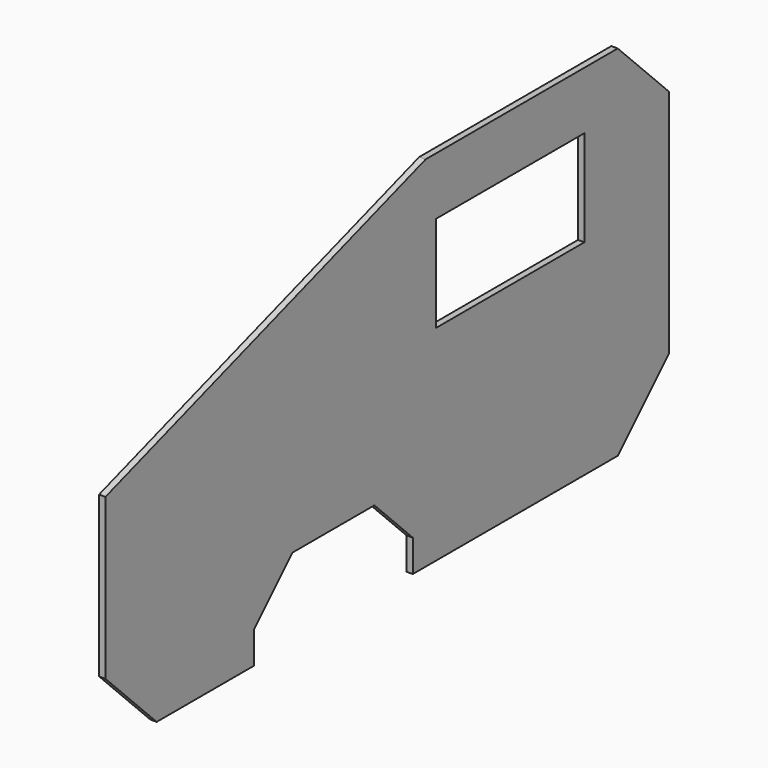
from build123d import *

# Parameters (mm, degrees)
PAD_DEPTH       = 20
POCKET_DEPTH    = 20
SKETCH002_W     = 580
SKETCH002_H     = 300
POCKET001_DEPTH = 20


with BuildPart() as part:
    # Sketch → Pad (new body)
    with BuildSketch(Plane.YZ):
        Polygon((-2000, 200), (-2000, 700), (-750, 1120), (0, 1120), (200, 920), (200, 200), (0, 0), (-1800, 0), align=None)
    extrude(amount=PAD_DEPTH)

    # Sketch001 (on Face10 of Pad) → Pocket (cut)
    with BuildSketch(Plane.YZ.offset(20)):
        Polygon((-950, 250), (-1270, 250), (-1420, 100), (-1420, 0), (-800, 0), (-800, 100), align=None)
    extrude(amount=-POCKET_DEPTH, mode=Mode.SUBTRACT)

    # Sketch002 (on Face5 of Pocket) → Pocket001 (cut)
    with BuildSketch(Plane.YZ.offset(20)):
        with Locations((-420, 790)):
            Rectangle(SKETCH002_W, SKETCH002_H)
    extrude(amount=-POCKET001_DEPTH, mode=Mode.SUBTRACT)


solid = part.part
